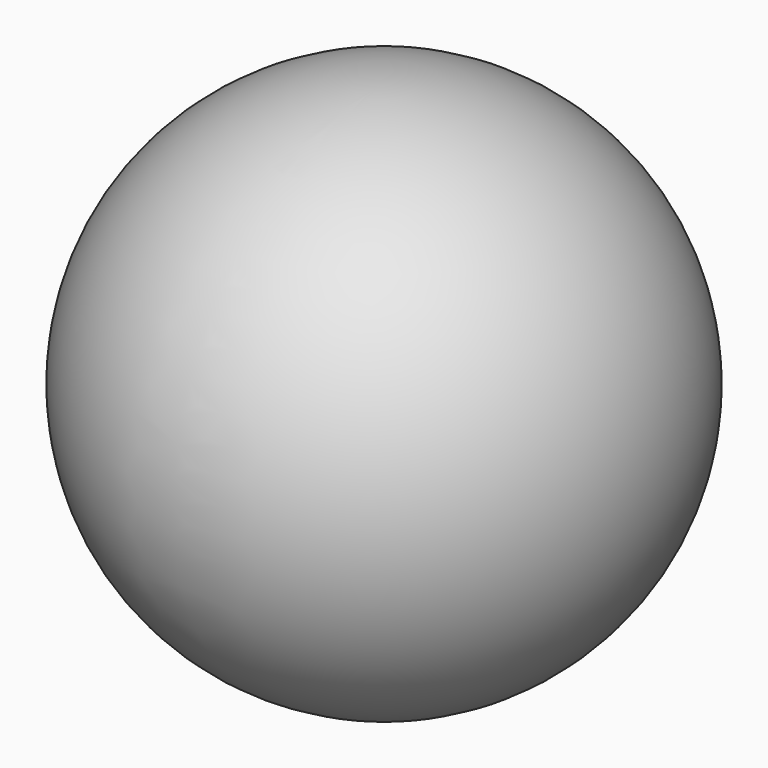
from build123d import *


with BuildPart() as f2:
    # F0 (on Right) → F2 (revolve)
    with BuildSketch(Plane.YZ):
        with BuildLine():
            Line((0, -7.62), (0, 7.62))
            ThreePointArc((0, 7.62), (-7.62, 0), (0, -7.62))
        make_face()
    revolve(axis=Axis((0, 0, 0), (0, 0, 1)))


solid = f2.part
